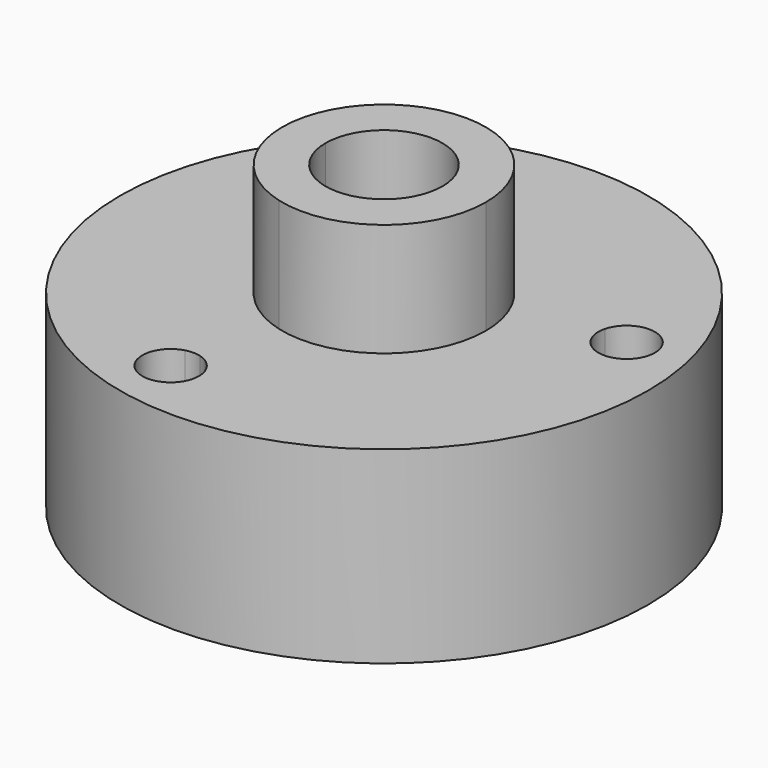
from build123d import *

# Parameters (mm, degrees)
F0_R     = 14
F1_DEPTH = 10
F2_DEPTH = 16
F3_DEPTH = 5
F4_DEPTH = 7


with BuildPart() as f1:
    # F0 (on Top) → F1 (new body)
    with BuildSketch(Plane.XY):
        Circle(F0_R)
        with BuildLine():
            Line((-3.2273842295, -9.1469844412), (-4.8285142885, -3.1714857115))
            Line((-4.8285142885, -3.1714857115), (-6.7625631329, -1.2374368671))
            ThreePointArc((-6.7625631329, -1.2374368671), (-9.75, 0), (-6.7625631329, 1.2374368671))
            Line((-6.7625631329, 1.2374368671), (-6.1689418708, 1.8310581292))
            Line((-6.1689418708, 1.8310581292), (-7.3684889512, 6.3078287794))
            ThreePointArc((-7.3684889512, 6.3078287794), (-8.9467475293, 8.6698596623), (-6.2567175188, 7.7567175188))
            ThreePointArc((-6.2567175188, 7.7567175188), (-6.2695502268, 7.5609282305), (-6.3078287794, 7.3684889512))
            Line((-6.3078287794, 7.3684889512), (-1.8310581292, 6.1689418708))
            Line((-1.8310581292, 6.1689418708), (-1.2374368671, 6.7625631329))
            ThreePointArc((-1.2374368671, 6.7625631329), (-0.6696960066, 9.6167891819), (1.75, 8))
            ThreePointArc((1.75, 8), (1.6167891819, 7.3303039934), (1.2374368671, 6.7625631329))
            Line((1.2374368671, 6.7625631329), (3.1714857115, 4.8285142885))
            Line((3.1714857115, 4.8285142885), (9.1469844412, 3.2273842295))
            ThreePointArc((9.1469844412, 3.2273842295), (10.791662469, 4.3263229539), (12.0958731807, 2.8391556619))
            ThreePointArc((12.0958731807, 2.8391556619), (11.1698983292, 1.4533363631), (9.5352130089, 1.7784954901))
            Line((9.5352130089, 1.7784954901), (9.1098023873, 1.3530848684))
            ThreePointArc((9.1098023873, 1.3530848684), (9.581874549, 0.7484469996), (9.75, 0))
            ThreePointArc((9.75, 0), (8.6696960066, -1.6167891819), (6.7625631329, -1.2374368671))
            Line((6.7625631329, -1.2374368671), (1.2374368671, -6.7625631329))
            ThreePointArc((1.2374368671, -6.7625631329), (1.6167891819, -7.3303039934), (1.75, -8))
            ThreePointArc((1.75, -8), (0.5893222719, -9.6477861693), (-1.3530848684, -9.1098023873))
            Line((-1.3530848684, -9.1098023873), (-1.7784954901, -9.5352130089))
            ThreePointArc((-1.7784954901, -9.5352130089), (-1.4533363631, -10.0218480321), (-1.3391556619, -10.5958731807))
            ThreePointArc((-1.3391556619, -10.5958731807), (-3.7522978054, -11.7859031911), (-3.2273842295, -9.1469844412))
        make_face(mode=Mode.SUBTRACT)
        with BuildLine():
            Line((-5.6783113237, 0), (-5.4, 0))
            ThreePointArc((-5.4, 0), (0, 5.4), (5.4, 0))
            ThreePointArc((5.4, 0), (3.2873117166, -4.2841080376), (-1.3976228436, -5.215999462))
            Line((-1.3976228436, -5.215999462), (-1.6905989232, -6.3094010768))
            Line((-1.6905989232, -6.3094010768), (-1.2374368671, -6.7625631329))
            ThreePointArc((-1.2374368671, -6.7625631329), (-0.0861176821, -6.2521202144), (1.1098023873, -6.6469151316))
            Line((1.1098023873, -6.6469151316), (6.6469151316, -1.1098023873))
            ThreePointArc((6.6469151316, -1.1098023873), (6.2521202144, 0.0861176821), (6.7625631329, 1.2374368671))
            Line((6.7625631329, 1.2374368671), (3.1714857115, 4.8285142885))
            Line((3.1714857115, 4.8285142885), (-1.8310581292, 6.1689418708))
            Line((-1.8310581292, 6.1689418708), (-6.1689418708, 1.8310581292))
            Line((-6.1689418708, 1.8310581292), (-5.6783113237, 0))
        make_face()
        with BuildLine():
            Line((6.6469151316, -1.1098023873), (1.1098023873, -6.6469151316))
            ThreePointArc((1.1098023873, -6.6469151316), (1.1750432521, -6.7031679539), (1.2374368671, -6.7625631329))
            Line((1.2374368671, -6.7625631329), (6.7625631329, -1.2374368671))
            ThreePointArc((6.7625631329, -1.2374368671), (6.7031679539, -1.1750432521), (6.6469151316, -1.1098023873))
        make_face()
        with BuildLine():
            Line((9.1469844412, 3.2273842295), (3.1714857115, 4.8285142885))
            Line((3.1714857115, 4.8285142885), (6.7625631329, 1.2374368671))
            ThreePointArc((6.7625631329, 1.2374368671), (7.9138823179, 1.7478797856), (9.1098023873, 1.3530848684))
            Line((9.1098023873, 1.3530848684), (9.5352130089, 1.7784954901))
            ThreePointArc((9.5352130089, 1.7784954901), (9.1469844412, 2.4509270942), (9.1469844412, 3.2273842295))
        make_face()
        with BuildLine():
            Line((-1.2374368671, 6.7625631329), (-1.8310581292, 6.1689418708))
            Line((-1.8310581292, 6.1689418708), (3.1714857115, 4.8285142885))
            Line((3.1714857115, 4.8285142885), (1.2374368671, 6.7625631329))
            ThreePointArc((1.2374368671, 6.7625631329), (0, 6.25), (-1.2374368671, 6.7625631329))
        make_face()
        with BuildLine():
            Line((-7.3684889512, 6.3078287794), (-6.1689418708, 1.8310581292))
            Line((-6.1689418708, 1.8310581292), (-1.8310581292, 6.1689418708))
            Line((-1.8310581292, 6.1689418708), (-6.3078287794, 7.3684889512))
            ThreePointArc((-6.3078287794, 7.3684889512), (-6.696057347, 6.696057347), (-7.3684889512, 6.3078287794))
        make_face()
        with BuildLine():
            Line((-4.8285142885, -3.1714857115), (-5.6783113237, 0))
            Line((-5.6783113237, 0), (-6.25, 0))
            ThreePointArc((-6.25, 0), (-6.3832108181, -0.6696960066), (-6.7625631329, -1.2374368671))
            Line((-6.7625631329, -1.2374368671), (-4.8285142885, -3.1714857115))
        make_face()
        with BuildLine():
            Line((-6.25, 0), (-5.6783113237, 0))
            Line((-5.6783113237, 0), (-6.1689418708, 1.8310581292))
            Line((-6.1689418708, 1.8310581292), (-6.7625631329, 1.2374368671))
            ThreePointArc((-6.7625631329, 1.2374368671), (-6.3832108181, 0.6696960066), (-6.25, 0))
        make_face()
        with BuildLine():
            Line((-2.4509270942, -9.1469844412), (-1.6905989232, -6.3094010768))
            Line((-1.6905989232, -6.3094010768), (-4.8285142885, -3.1714857115))
            Line((-4.8285142885, -3.1714857115), (-3.2273842295, -9.1469844412))
            ThreePointArc((-3.2273842295, -9.1469844412), (-2.8391556619, -9.0958731807), (-2.4509270942, -9.1469844412))
        make_face()
        with BuildLine():
            Line((-1.2374368671, -6.7625631329), (-1.6905989232, -6.3094010768))
            Line((-1.6905989232, -6.3094010768), (-2.4509270942, -9.1469844412))
            ThreePointArc((-2.4509270942, -9.1469844412), (-2.0891556619, -9.296835075), (-1.7784954901, -9.5352130089))
            Line((-1.7784954901, -9.5352130089), (-1.3530848684, -9.1098023873))
            ThreePointArc((-1.3530848684, -9.1098023873), (-1.7478797856, -7.9138823179), (-1.2374368671, -6.7625631329))
        make_face()
        with BuildLine():
            ThreePointArc((-1.3976228436, -5.215999462), (-4.2841080376, -3.2873117166), (-5.4, 0))
            Line((-5.4, 0), (-5.6783113237, 0))
            Line((-5.6783113237, 0), (-4.8285142885, -3.1714857115))
            Line((-4.8285142885, -3.1714857115), (-1.6905989232, -6.3094010768))
            Line((-1.6905989232, -6.3094010768), (-1.3976228436, -5.215999462))
        make_face()
        with BuildLine():
            Line((-8, 0), (-6.25, 0))
            ThreePointArc((-6.25, 0), (-6.3832108181, 0.6696960066), (-6.7625631329, 1.2374368671))
            Line((-6.7625631329, 1.2374368671), (-8, 0))
        make_face()
        with BuildLine():
            ThreePointArc((-6.7625631329, -1.2374368671), (-6.3832108181, -0.6696960066), (-6.25, 0))
            Line((-6.25, 0), (-8, 0))
            Line((-8, 0), (-6.7625631329, -1.2374368671))
        make_face()
        with BuildLine():
            ThreePointArc((-6.7625631329, 1.2374368671), (-9.75, 0), (-6.7625631329, -1.2374368671))
            Line((-6.7625631329, -1.2374368671), (-8, 0))
            Line((-8, 0), (-6.7625631329, 1.2374368671))
        make_face()
        with BuildLine():
            ThreePointArc((1.75, 8), (-0.6696960066, 9.6167891819), (-1.2374368671, 6.7625631329))
            Line((-1.2374368671, 6.7625631329), (0, 8))
            Line((0, 8), (1.2374368671, 6.7625631329))
            ThreePointArc((1.2374368671, 6.7625631329), (1.6167891819, 7.3303039934), (1.75, 8))
        make_face()
        with BuildLine():
            Line((0, 8), (-1.2374368671, 6.7625631329))
            ThreePointArc((-1.2374368671, 6.7625631329), (0, 6.25), (1.2374368671, 6.7625631329))
            Line((1.2374368671, 6.7625631329), (0, 8))
        make_face()
        with BuildLine():
            Line((9.1098023873, 1.3530848684), (7.8783587594, 0.1216412406))
            Line((7.8783587594, 0.1216412406), (8, 0))
            Line((8, 0), (6.7625631329, -1.2374368671))
            ThreePointArc((6.7625631329, -1.2374368671), (8.6696960066, -1.6167891819), (9.75, 0))
            ThreePointArc((9.75, 0), (9.581874549, 0.7484469996), (9.1098023873, 1.3530848684))
        make_face()
        with BuildLine():
            ThreePointArc((6.7625631329, 1.2374368671), (6.2521202144, 0.0861176821), (6.6469151316, -1.1098023873))
            Line((6.6469151316, -1.1098023873), (7.8783587594, 0.1216412406))
            Line((7.8783587594, 0.1216412406), (6.7625631329, 1.2374368671))
        make_face()
        with BuildLine():
            Line((0, -8), (-0.1216412406, -7.8783587594))
            Line((-0.1216412406, -7.8783587594), (-1.3530848684, -9.1098023873))
            ThreePointArc((-1.3530848684, -9.1098023873), (0.5893222719, -9.6477861693), (1.75, -8))
            ThreePointArc((1.75, -8), (1.6167891819, -7.3303039934), (1.2374368671, -6.7625631329))
            Line((1.2374368671, -6.7625631329), (0, -8))
        make_face()
        with BuildLine():
            ThreePointArc((1.1098023873, -6.6469151316), (-0.0861176821, -6.2521202144), (-1.2374368671, -6.7625631329))
            Line((-1.2374368671, -6.7625631329), (-0.1216412406, -7.8783587594))
            Line((-0.1216412406, -7.8783587594), (1.1098023873, -6.6469151316))
        make_face()
        with BuildLine():
            Line((-0.1216412406, -7.8783587594), (-1.2374368671, -6.7625631329))
            ThreePointArc((-1.2374368671, -6.7625631329), (-1.7478797856, -7.9138823179), (-1.3530848684, -9.1098023873))
            Line((-1.3530848684, -9.1098023873), (-0.1216412406, -7.8783587594))
        make_face()
        with BuildLine():
            Line((1.1098023873, -6.6469151316), (-0.1216412406, -7.8783587594))
            Line((-0.1216412406, -7.8783587594), (0, -8))
            Line((0, -8), (1.2374368671, -6.7625631329))
            ThreePointArc((1.2374368671, -6.7625631329), (1.1750432521, -6.7031679539), (1.1098023873, -6.6469151316))
        make_face()
        with BuildLine():
            ThreePointArc((9.1098023873, 1.3530848684), (7.9138823179, 1.7478797856), (6.7625631329, 1.2374368671))
            Line((6.7625631329, 1.2374368671), (7.8783587594, 0.1216412406))
            Line((7.8783587594, 0.1216412406), (9.1098023873, 1.3530848684))
        make_face()
        with BuildLine():
            Line((7.8783587594, 0.1216412406), (6.6469151316, -1.1098023873))
            ThreePointArc((6.6469151316, -1.1098023873), (6.7031679539, -1.1750432521), (6.7625631329, -1.2374368671))
            Line((6.7625631329, -1.2374368671), (8, 0))
            Line((8, 0), (7.8783587594, 0.1216412406))
        make_face()
    extrude(amount=F1_DEPTH)

    # F0 (on Top) → F2 (join)
    with BuildSketch(Plane.XY):
        with BuildLine():
            ThreePointArc((-0.8023390398, -2.9943700615), (-2.4593953549, -1.8871604299), (-3.1, 0))
            Line((-3.1, 0), (-5.4, 0))
            ThreePointArc((-5.4, 0), (-4.2841080376, -3.2873117166), (-1.3976228436, -5.215999462))
            Line((-1.3976228436, -5.215999462), (-0.8023390398, -2.9943700615))
        make_face()
        with BuildLine():
            ThreePointArc((-3.1, 0), (0, 3.1), (3.1, 0))
            ThreePointArc((3.1, 0), (1.8871604299, -2.4593953549), (-0.8023390398, -2.9943700615))
            Line((-0.8023390398, -2.9943700615), (-1.3976228436, -5.215999462))
            ThreePointArc((-1.3976228436, -5.215999462), (3.2873117166, -4.2841080376), (5.4, 0))
            ThreePointArc((5.4, 0), (0, 5.4), (-5.4, 0))
            Line((-5.4, 0), (-3.1, 0))
        make_face()
    extrude(amount=F2_DEPTH)

    # F0 (on Top) → F3 (join)
    with BuildSketch(Plane.XY):
        with BuildLine():
            ThreePointArc((-1.7784954901, -9.5352130089), (-2.0891556619, -9.296835075), (-2.4509270942, -9.1469844412))
            Line((-2.4509270942, -9.1469844412), (-2.8391556619, -10.5958731807))
            Line((-2.8391556619, -10.5958731807), (-1.7784954901, -9.5352130089))
        make_face()
        with BuildLine():
            Line((-2.8391556619, -10.5958731807), (-2.4509270942, -9.1469844412))
            ThreePointArc((-2.4509270942, -9.1469844412), (-2.8391556619, -9.0958731807), (-3.2273842295, -9.1469844412))
            Line((-3.2273842295, -9.1469844412), (-2.8391556619, -10.5958731807))
        make_face()
        with BuildLine():
            Line((-2.8391556619, -10.5958731807), (-3.2273842295, -9.1469844412))
            ThreePointArc((-3.2273842295, -9.1469844412), (-3.7522978054, -11.7859031911), (-1.3391556619, -10.5958731807))
            ThreePointArc((-1.3391556619, -10.5958731807), (-1.4533363631, -10.0218480321), (-1.7784954901, -9.5352130089))
            Line((-1.7784954901, -9.5352130089), (-2.8391556619, -10.5958731807))
        make_face()
        with BuildLine():
            Line((10.5958731807, 2.8391556619), (9.1469844412, 3.2273842295))
            ThreePointArc((9.1469844412, 3.2273842295), (9.1469844412, 2.4509270942), (9.5352130089, 1.7784954901))
            Line((9.5352130089, 1.7784954901), (10.5958731807, 2.8391556619))
        make_face()
        with BuildLine():
            ThreePointArc((12.0958731807, 2.8391556619), (10.791662469, 4.3263229539), (9.1469844412, 3.2273842295))
            Line((9.1469844412, 3.2273842295), (10.5958731807, 2.8391556619))
            Line((10.5958731807, 2.8391556619), (9.5352130089, 1.7784954901))
            ThreePointArc((9.5352130089, 1.7784954901), (11.1698983292, 1.4533363631), (12.0958731807, 2.8391556619))
        make_face()
        with BuildLine():
            ThreePointArc((-6.2567175188, 7.7567175188), (-8.9467475293, 8.6698596623), (-7.3684889512, 6.3078287794))
            Line((-7.3684889512, 6.3078287794), (-7.7567175188, 7.7567175188))
            Line((-7.7567175188, 7.7567175188), (-6.3078287794, 7.3684889512))
            ThreePointArc((-6.3078287794, 7.3684889512), (-6.2695502268, 7.5609282305), (-6.2567175188, 7.7567175188))
        make_face()
        with BuildLine():
            Line((-7.7567175188, 7.7567175188), (-7.3684889512, 6.3078287794))
            ThreePointArc((-7.3684889512, 6.3078287794), (-6.696057347, 6.696057347), (-6.3078287794, 7.3684889512))
            Line((-6.3078287794, 7.3684889512), (-7.7567175188, 7.7567175188))
        make_face()
    extrude(amount=F3_DEPTH)

    # F0 (on Top) → F4 (cut)
    with BuildSketch(Plane.XY):
        with BuildLine():
            ThreePointArc((1.75, 8), (-0.6696960066, 9.6167891819), (-1.2374368671, 6.7625631329))
            Line((-1.2374368671, 6.7625631329), (0, 8))
            Line((0, 8), (1.2374368671, 6.7625631329))
            ThreePointArc((1.2374368671, 6.7625631329), (1.6167891819, 7.3303039934), (1.75, 8))
        make_face()
        with BuildLine():
            Line((0, 8), (-1.2374368671, 6.7625631329))
            ThreePointArc((-1.2374368671, 6.7625631329), (0, 6.25), (1.2374368671, 6.7625631329))
            Line((1.2374368671, 6.7625631329), (0, 8))
        make_face()
        with BuildLine():
            ThreePointArc((-6.7625631329, 1.2374368671), (-9.75, 0), (-6.7625631329, -1.2374368671))
            Line((-6.7625631329, -1.2374368671), (-8, 0))
            Line((-8, 0), (-6.7625631329, 1.2374368671))
        make_face()
        with BuildLine():
            ThreePointArc((-6.7625631329, -1.2374368671), (-6.3832108181, -0.6696960066), (-6.25, 0))
            Line((-6.25, 0), (-8, 0))
            Line((-8, 0), (-6.7625631329, -1.2374368671))
        make_face()
        with BuildLine():
            Line((-8, 0), (-6.25, 0))
            ThreePointArc((-6.25, 0), (-6.3832108181, 0.6696960066), (-6.7625631329, 1.2374368671))
            Line((-6.7625631329, 1.2374368671), (-8, 0))
        make_face()
        with BuildLine():
            ThreePointArc((1.1098023873, -6.6469151316), (-0.0861176821, -6.2521202144), (-1.2374368671, -6.7625631329))
            Line((-1.2374368671, -6.7625631329), (-0.1216412406, -7.8783587594))
            Line((-0.1216412406, -7.8783587594), (1.1098023873, -6.6469151316))
        make_face()
        with BuildLine():
            Line((-0.1216412406, -7.8783587594), (-1.2374368671, -6.7625631329))
            ThreePointArc((-1.2374368671, -6.7625631329), (-1.7478797856, -7.9138823179), (-1.3530848684, -9.1098023873))
            Line((-1.3530848684, -9.1098023873), (-0.1216412406, -7.8783587594))
        make_face()
        with BuildLine():
            Line((1.1098023873, -6.6469151316), (-0.1216412406, -7.8783587594))
            Line((-0.1216412406, -7.8783587594), (0, -8))
            Line((0, -8), (1.2374368671, -6.7625631329))
            ThreePointArc((1.2374368671, -6.7625631329), (1.1750432521, -6.7031679539), (1.1098023873, -6.6469151316))
        make_face()
        with BuildLine():
            Line((0, -8), (-0.1216412406, -7.8783587594))
            Line((-0.1216412406, -7.8783587594), (-1.3530848684, -9.1098023873))
            ThreePointArc((-1.3530848684, -9.1098023873), (0.5893222719, -9.6477861693), (1.75, -8))
            ThreePointArc((1.75, -8), (1.6167891819, -7.3303039934), (1.2374368671, -6.7625631329))
            Line((1.2374368671, -6.7625631329), (0, -8))
        make_face()
        with BuildLine():
            ThreePointArc((9.1098023873, 1.3530848684), (7.9138823179, 1.7478797856), (6.7625631329, 1.2374368671))
            Line((6.7625631329, 1.2374368671), (7.8783587594, 0.1216412406))
            Line((7.8783587594, 0.1216412406), (9.1098023873, 1.3530848684))
        make_face()
        with BuildLine():
            ThreePointArc((6.7625631329, 1.2374368671), (6.2521202144, 0.0861176821), (6.6469151316, -1.1098023873))
            Line((6.6469151316, -1.1098023873), (7.8783587594, 0.1216412406))
            Line((7.8783587594, 0.1216412406), (6.7625631329, 1.2374368671))
        make_face()
        with BuildLine():
            Line((9.1098023873, 1.3530848684), (7.8783587594, 0.1216412406))
            Line((7.8783587594, 0.1216412406), (8, 0))
            Line((8, 0), (6.7625631329, -1.2374368671))
            ThreePointArc((6.7625631329, -1.2374368671), (8.6696960066, -1.6167891819), (9.75, 0))
            ThreePointArc((9.75, 0), (9.581874549, 0.7484469996), (9.1098023873, 1.3530848684))
        make_face()
        with BuildLine():
            Line((9.1098023873, 1.3530848684), (7.8783587594, 0.1216412406))
            Line((7.8783587594, 0.1216412406), (8, 0))
            Line((8, 0), (6.7625631329, -1.2374368671))
            ThreePointArc((6.7625631329, -1.2374368671), (8.6696960066, -1.6167891819), (9.75, 0))
            ThreePointArc((9.75, 0), (9.581874549, 0.7484469996), (9.1098023873, 1.3530848684))
        make_face()
        with BuildLine():
            Line((7.8783587594, 0.1216412406), (6.6469151316, -1.1098023873))
            ThreePointArc((6.6469151316, -1.1098023873), (6.7031679539, -1.1750432521), (6.7625631329, -1.2374368671))
            Line((6.7625631329, -1.2374368671), (8, 0))
            Line((8, 0), (7.8783587594, 0.1216412406))
        make_face()
    extrude(amount=F4_DEPTH, mode=Mode.SUBTRACT)


solid = f1.part
